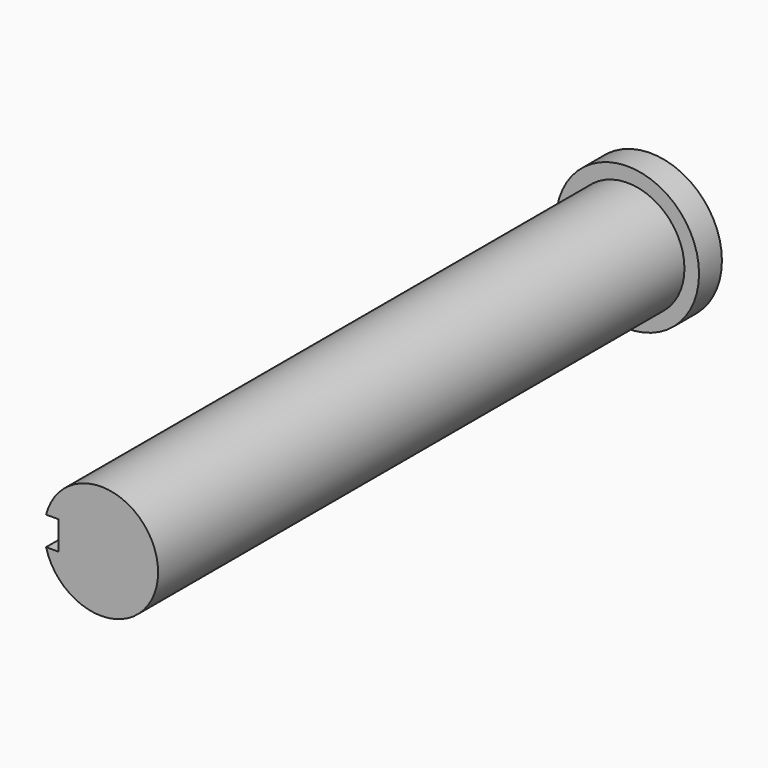
from build123d import *

# Parameters (mm, degrees)
F0_R     = 15.875
F0_R_2   = 12.6365
F1_DEPTH = 6.35
F2_R     = 12.6365
F3_DEPTH = 152.4
F5_DEPTH = 50.8


with BuildPart() as f1:
    # F0 (on Front) → F1 (new body)
    with BuildSketch(Plane.XZ):
        Circle(F0_R)
        Circle(F0_R_2, mode=Mode.SUBTRACT)
    extrude(amount=F1_DEPTH)

    # F2 (on Front) → F3 (join)
    with BuildSketch(Plane.XZ):
        Circle(F2_R)
    extrude(amount=F3_DEPTH)

    # F4 (on face) → F5 (cut)
    with BuildSketch(Plane.XZ.offset(152.4)):
        with BuildLine():
            Line((-9.4615, 3.175), (-12.2311286172, 3.175))
            ThreePointArc((-12.2311286172, 3.175), (-12.5347474849, 1.6003867469), (-12.6365, 0))
            ThreePointArc((-12.6365, 0), (-12.5347474849, -1.6003867469), (-12.2311286172, -3.175))
            Line((-12.2311286172, -3.175), (-9.4615, -3.175))
            Line((-9.4615, -3.175), (-9.4615, 3.175))
        make_face()
    extrude(amount=-F5_DEPTH, mode=Mode.SUBTRACT)


solid = f1.part
